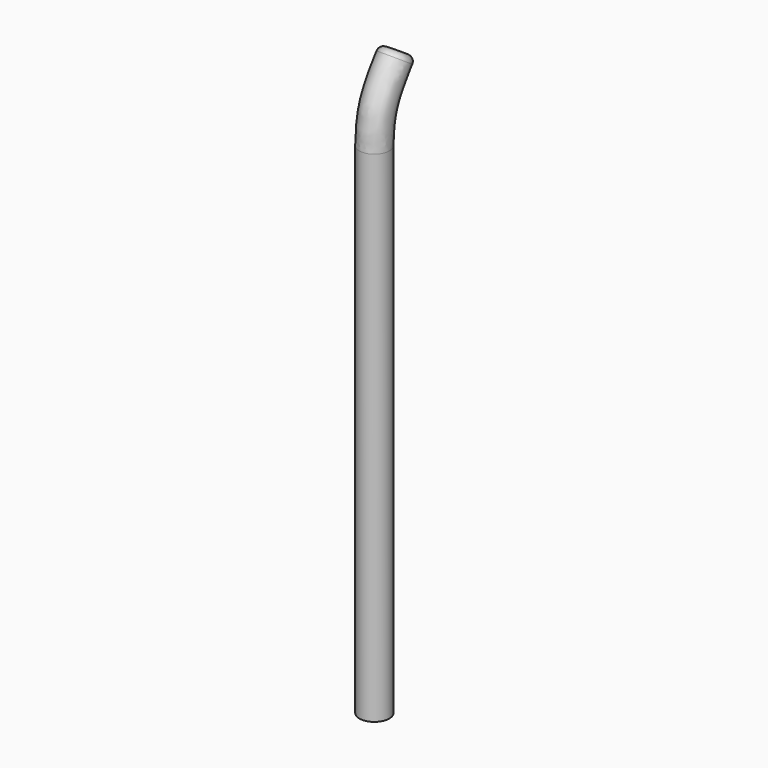
from build123d import *

# Parameters (mm, degrees)
F0_R     = 0.75
F1_DEPTH = 25
F5_R     = 0.75
F7_R     = 0.3


with BuildPart() as f1:
    # F0 (on Top) → F1 (new body)
    with BuildSketch(Plane.XY):
        Circle(F0_R)
    extrude(amount=F1_DEPTH)

    # F6: sweep along a path in F4
    with BuildLine(Plane.YZ) as f6_path:
        add(Plane.YZ * Edge.make_bspline(
            [(0, 25), (0.0276527047, 25.5188264102), (0.048108405, 26.7957580563), (1.2597410469, 28.3543405458), (1.3940753419, 28.5497736832), (1.4285740908, 28.5981334746)],
            knots=[0, 0, 0, 0, 0.4186868784, 0.8442205829, 1, 1, 1, 1], degree=3))
    # F5 (on offset) → F6 (sweep)
    with BuildSketch(Plane.XY.offset(25)):
        Circle(F5_R)
    sweep(path=f6_path.line)

    # F7
    f7_edges = [f1.edges().sort_by_distance(p)[0] for p in [
        (-0.75, 1.428574, 28.598133),
    ]]
    fillet(f7_edges, radius=F7_R)


solid = f1.part
